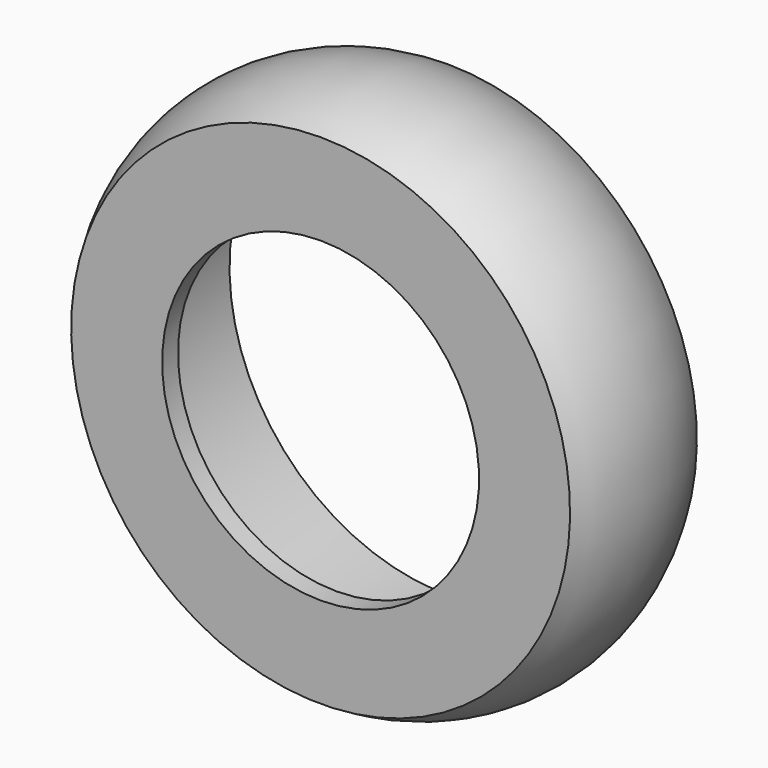
from build123d import *

# Parameters (mm, degrees)
F0_W = 1
F0_H = 3
F2_R = 1


with BuildPart() as f1:
    # F0 (on Right) → F1 (revolve)
    with BuildSketch(Plane.YZ):
        with BuildLine():
            Line((-4, 12.594289), (-4, 11))
            Line((-4, 11), (-3, 11))
            Line((-3, 11), (4, 11))
            Line((4, 11), (4, 12.594289))
            ThreePointArc((4, 12.594289), (0, 13.75), (-4, 12.594289))
        make_face()
        with Locations((-3.5, 9.5)):
            Rectangle(F0_W, F0_H)
    revolve(axis=Axis((0, 0.242424, 0), (0, 1, 0)))

    # F2
    f2_edges = [f1.edges().sort_by_distance(p)[0] for p in [
        (0, -3, -11),
    ]]
    fillet(f2_edges, radius=F2_R)


solid = f1.part
